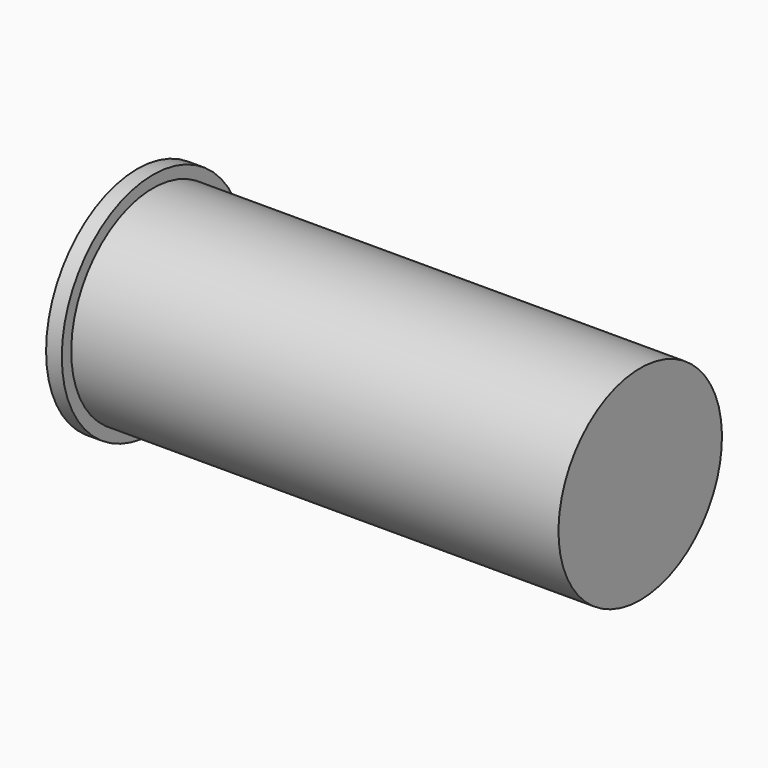
from build123d import *

# Parameters (mm, degrees)
CYLINDER001_R          = 7.25
CYLINDER001_DEPTH      = 1
CYLINDER_R             = 6.5
CYLINDER_DEPTH         = 32
FUSION_PLACEMENT_ANGLE = 90


with BuildPart() as cylinder001:
    # Cylinder001 → Cylinder001 (new body)
    with BuildSketch(Plane.XY):
        Circle(CYLINDER001_R)
    extrude(amount=CYLINDER001_DEPTH)


with BuildPart() as lasermoduletemplate:
    # Cylinder → Cylinder (new body)
    with BuildSketch(Plane.XY):
        Circle(CYLINDER_R)
    extrude(amount=CYLINDER_DEPTH)

    # Fusion: union Cylinder001
    add(cylinder001.part)


with BuildPart() as lasermoduletemplate_1:
    # Fusion placement: moved
    add(lasermoduletemplate.part.moved(Location((-15, 0, 10))).rotate(Axis((-15, 0, 10), (0, 1, 0)), FUSION_PLACEMENT_ANGLE))


solid = lasermoduletemplate_1.part
